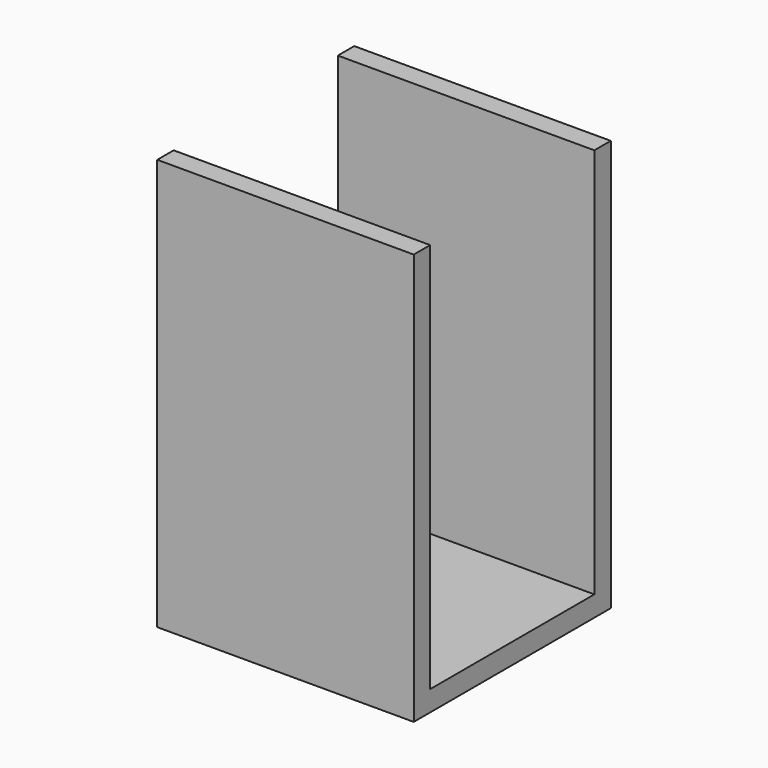
from build123d import *

# Parameters (mm, degrees)
F0_W     = 29
F0_H     = 24
F0_W_2   = 25
F0_H_2   = 20
F1_DEPTH = 38.1
F2_DEPTH = 2
F3_W     = 20
F3_H     = 38.1
F4_DEPTH = 29.001
F6_DEPTH = 40.101


with BuildPart() as f1:
    # F0 (on Top) → F1 (new body)
    with BuildSketch(Plane.XY):
        Rectangle(F0_W, F0_H)
        Rectangle(F0_W_2, F0_H_2, mode=Mode.SUBTRACT)
    extrude(amount=F1_DEPTH)

    # F0 (on Top) → F2 (join)
    with BuildSketch(Plane.XY):
        Rectangle(F0_W, F0_H)
        Rectangle(F0_W_2, F0_H_2, mode=Mode.SUBTRACT)
        Rectangle(F0_W_2, F0_H_2)
    extrude(amount=-F2_DEPTH)

    # F3 (on face) → F4 (cut, through all)
    with BuildSketch(Plane(origin=(-14.5, 0, 0), x_dir=(0, -1, 0), z_dir=(-1, 0, 0))):
        with Locations((0, 19.05)):
            Rectangle(F3_W, F3_H)
    extrude(amount=-F4_DEPTH, mode=Mode.SUBTRACT)

    # F5 (on face) → F6 (cut, through all)
    with BuildSketch(Plane(origin=(0, 0, -2), x_dir=(1, 0, 0), z_dir=(0, 0, -1))):
        Polygon((-12.5, 10), (-12.5, 12), (-14.5, 12), (-14.5, -12), (-12.5, -12), (-12.5, -10), align=None)
        Polygon((14.5, -12), (14.5, 12), (12.5, 12), (12.5, 10), (12.5, -10), (12.5, -12), align=None)
    extrude(amount=-F6_DEPTH, mode=Mode.SUBTRACT)


solid = f1.part
